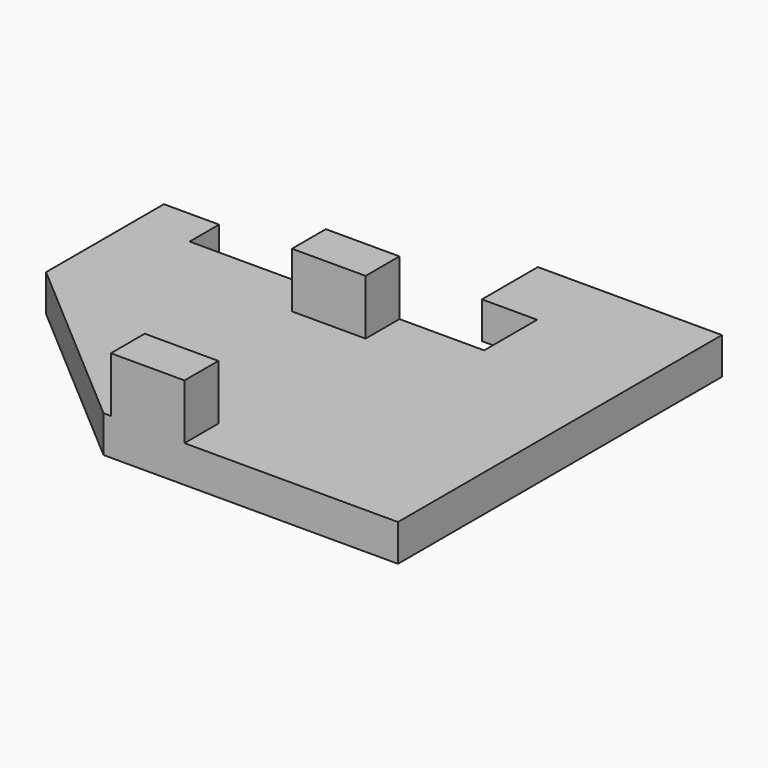
from build123d import *

# Parameters (mm, degrees)
F1_DEPTH = 1
F2_W     = 2
F2_H     = 1.15
F3_DEPTH = 1.5


with BuildPart() as f1:
    # F0 (on Top) → F1 (new body)
    with BuildSketch(Plane.XY):
        Polygon((-8, 0), (0, 0), (0, 11), (-5, 11), (-5, 9.1), (-3.5, 9.1), (-3.5, 7.3), (-11.5, 7.3), (-11.5, 8.3), (-13, 8.3), (-13, 4.3), align=None)
    extrude(amount=F1_DEPTH)

    # F2 (on face) → F3 (join)
    with BuildSketch(Plane.XY.offset(1)):
        with Locations((-6.8, 0.575)):
            Rectangle(F2_W, F2_H)
        with Locations((-6.8, 6.725)):
            Rectangle(F2_W, F2_H)
    extrude(amount=F3_DEPTH)


solid = f1.part
